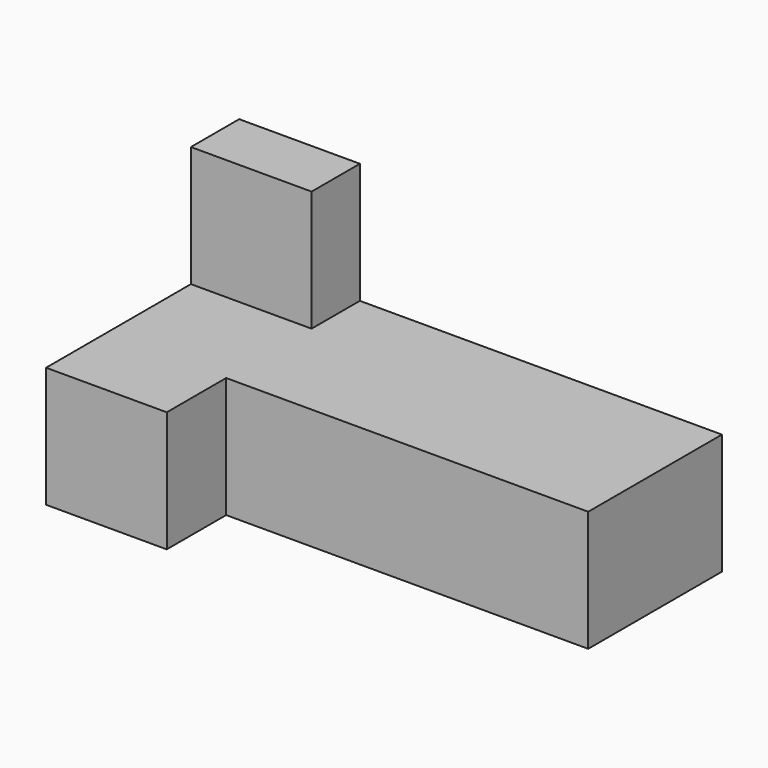
from build123d import *

# Parameters (mm, degrees)
F1_DEPTH = 101.6
F2_W     = 25.4
F2_H     = 101.6
F3_DEPTH = 50.8
F4_W     = 152.4
F4_H     = 31.2542108059
F5_DEPTH = 50.8
F6_W     = 50.8
F6_H     = 76.2
F7_DEPTH = 50.8


with BuildPart() as f1:
    # F0 (on Front) → F1 (new body)
    with BuildSketch(Plane.XZ):
        Polygon((0, 37.7466529608), (-76.2, 37.7466529608), (-76.2, -63.8533470392), (127, -63.8533470392), (127, -13.0533470392), (0, -13.0533470392), align=None)
    extrude(amount=F1_DEPTH)

    # F2 (on face) → F3 (cut)
    with BuildSketch(Plane.XY.offset(-13.0533470392)):
        with Locations((-12.7, -50.8)):
            Rectangle(F2_W, F2_H)
    extrude(amount=F3_DEPTH, mode=Mode.SUBTRACT)

    # F4 (on face) → F5 (cut)
    with BuildSketch(Plane.XY.offset(-13.0533470392)):
        with Locations((50.8, -85.9728945971)):
            Rectangle(F4_W, F4_H)
    extrude(amount=-F5_DEPTH, mode=Mode.SUBTRACT)

    # F6 (on face) → F7 (cut)
    with BuildSketch(Plane.XY.offset(37.7466529608)):
        with Locations((-50.8, -63.5)):
            Rectangle(F6_W, F6_H)
    extrude(amount=-F7_DEPTH, mode=Mode.SUBTRACT)


solid = f1.part
